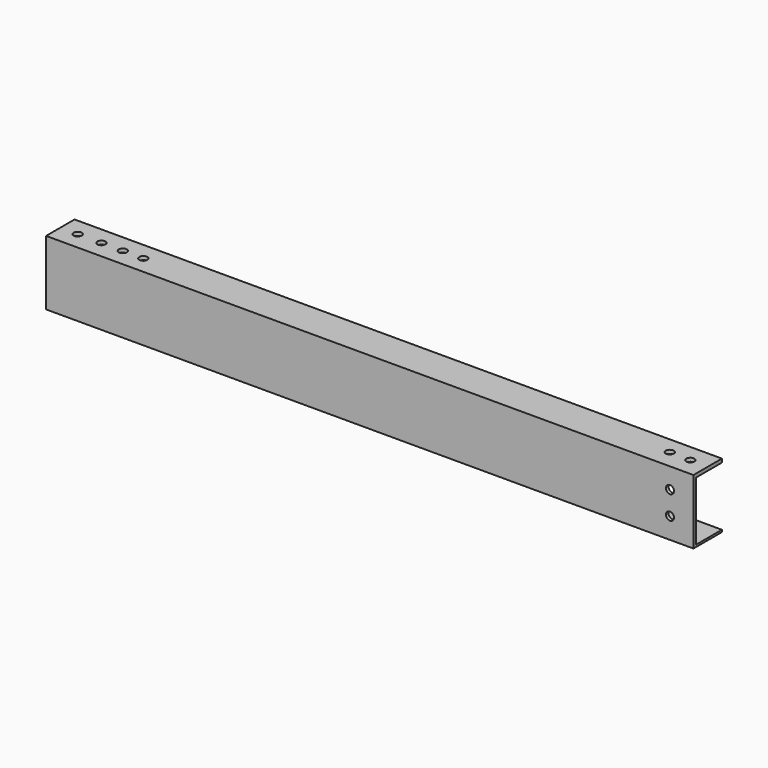
from build123d import *

# Parameters (mm, degrees)
F0_W     = 254
F0_H     = 25.4
F1_DEPTH = 13.97
F2_W     = 267.5041258335
F2_H     = 23.1854785234
F3_DEPTH = 12.7
F5_D     = 3.175
F7_D     = 3.175


with BuildPart() as f1:
    # F0 (on Front) → F1 (new body)
    with BuildSketch(Plane.XZ):
        with Locations((3.752566874, -11.3044876873)):
            Rectangle(F0_W, F0_H)
    extrude(amount=F1_DEPTH)

    # F2 (on Front) → F3 (cut)
    with BuildSketch(Plane.XZ):
        with Locations((1.6082376242, -11.5927392617)):
            Rectangle(F2_W, F2_H)
    extrude(amount=F3_DEPTH, mode=Mode.SUBTRACT)

    # F5 (through all)
    with Locations(Plane.XY.offset(1.3955123127)):
        with Locations((123.8327398896, -6.8190763704), (115.6149059534, -6.6323070787), (-116.3921877742, -7.0234532468), (-107.0919632912, -7.0234532468), (-98.6859947443, -7.0234532468), (-90.6377211213, -7.0234532468)):
            Hole(F5_D / 2)

    # F7 (through all)
    with Locations(Plane(origin=(0, 0, 0), x_dir=(1, 0, 0), z_dir=(0, 1, 0))):
        with Locations((121.5464174747, 6.637244951), (121.5464174747, 15.8025249839)):
            Hole(F7_D / 2)


solid = f1.part
